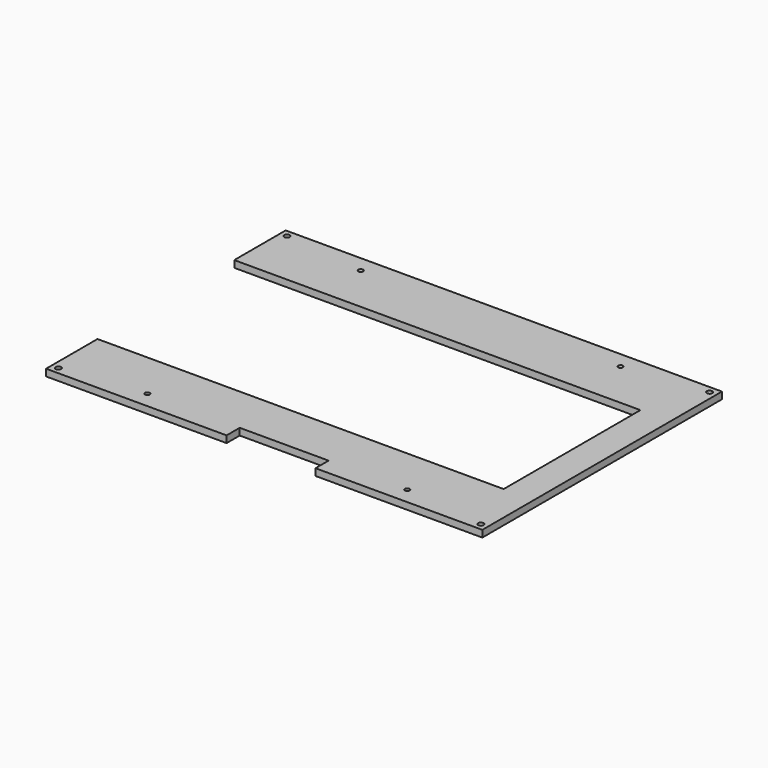
from build123d import *

# Parameters (mm, degrees)
F0_R     = 1.75
F1_DEPTH = 5
F2_R     = 2
F2_W     = 65
F2_H     = 10
F3_DEPTH = 5.001
F5_DEPTH = 5


with BuildPart() as f1:
    # F0 (on Top) → F1 (new body)
    with BuildSketch(Plane.XY):
        Polygon((157.5, 107.5), (-157.5, 107.5), (-157.5, 62.5), (137.5, 62.5), (137.5, -62.5), (-157.5, -62.5), (-157.5, -107.5), (157.5, -107.5), (157.5, -62.5), (157.5, 62.5), align=None)
        with Locations((-95, -97.5)):
            Circle(F0_R, mode=Mode.SUBTRACT)
        with Locations((95, -97.5)):
            Circle(F0_R, mode=Mode.SUBTRACT)
        with Locations((-95, 97.5)):
            Circle(F0_R, mode=Mode.SUBTRACT)
        with Locations((95, 97.5)):
            Circle(F0_R, mode=Mode.SUBTRACT)
    extrude(amount=F1_DEPTH)

    # F2 (on face) → F3 (cut, through all)
    with BuildSketch(Plane.XY.offset(5)):
        with Locations((-154.5, -104.5)):
            Circle(F2_R)
        with Locations((154.5, 274.5)):
            Circle(F2_R)
        with Locations((-59.5786754345, 247.2672616252)):
            Circle(F2_R)
        with Locations((5, -102.5)):
            Rectangle(F2_W, F2_H)
        with Locations((154.5, -104.5)):
            Circle(F2_R)
        with Locations((-154.5, 104.5)):
            Circle(F2_R)
        with Locations((154.5, 104.5)):
            Circle(F2_R)
    extrude(amount=-F3_DEPTH, mode=Mode.SUBTRACT)

    # F4 (on face) → F5 (join, through all)
    with BuildSketch(Plane.XY.offset(5)):
        Polygon((-157.5, 62.5), (-157.5, 107.5), (157.5, 107.5), (157.5, -107.5), (37.5, -107.5), (37.5, -109.5), (159.5, -109.5), (159.5, 109.5), (-159.5, 109.5), (-159.5, 62.5), align=None)
        Polygon((-27.5, -107.5), (-157.5, -107.5), (-157.5, -62.5), (-159.5, -62.5), (-159.5, -109.5), (-27.5, -109.5), align=None)
    extrude(amount=-F5_DEPTH)


solid = f1.part
